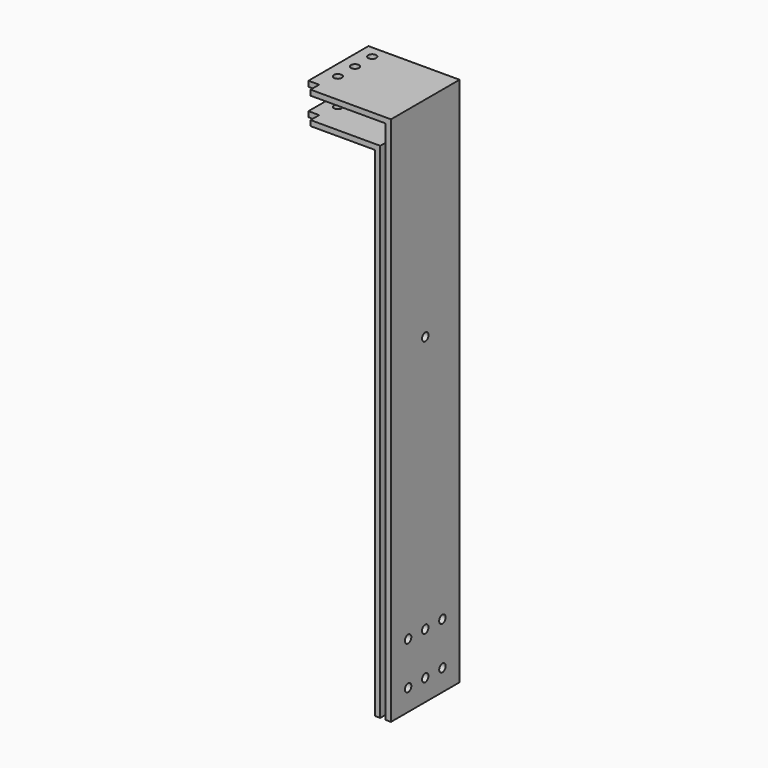
from build123d import *

# Parameters (mm, degrees)
F1_DEPTH = 50.8
F2_R     = 4.7625
F3_DEPTH = 107.951
F4_R     = 4.7625
F4_W     = 12.7
F4_H     = 12.7
F5_DEPTH = 628.651


with BuildPart() as f1:
    # F0 (on Front) → F1 (new body, symmetric)
    with BuildSketch(Plane.XZ):
        Polygon((-43.721065, 109.265013), (-138.971065, 109.265013), (-138.971065, 102.915013), (-50.071065, 102.915013), (-50.071065, -487.634987), (-43.721065, -487.634987), align=None)
        Polygon((-138.971065, 134.665013), (-37.371065, 134.665013), (-37.371065, -487.634987), (-31.021065, -487.634987), (-31.021065, 141.015013), (-138.971065, 141.015013), align=None)
    extrude(amount=F1_DEPTH, both=True)

    # F2 (on face) → F3 (cut, through all)
    with BuildSketch(Plane.YZ.offset(-31.021065)):
        with Locations((-25.4, -462.234987)):
            Circle(F2_R)
        with Locations((-25.4, -411.434987)):
            Circle(F2_R)
        with Locations((0, -462.234987)):
            Circle(F2_R)
        with Locations((0, -411.434987)):
            Circle(F2_R)
        with Locations((25.4, -462.234987)):
            Circle(F2_R)
        with Locations((25.4, -411.434987)):
            Circle(F2_R)
        with Locations((0, -106.634987)):
            Circle(F2_R)
    extrude(amount=-F3_DEPTH, mode=Mode.SUBTRACT)

    # F4 (on face) → F5 (cut, through all)
    with BuildSketch(Plane.XY.offset(141.015013)):
        with Locations((-123.096065, -14.2875)):
            Circle(F4_R)
        with Locations((-123.096065, 11.1125)):
            Circle(F4_R)
        with Locations((-123.096065, 36.5125)):
            Circle(F4_R)
        with Locations((-132.621065, -44.45)):
            Rectangle(F4_W, F4_H)
    extrude(amount=-F5_DEPTH, mode=Mode.SUBTRACT)


solid = f1.part
